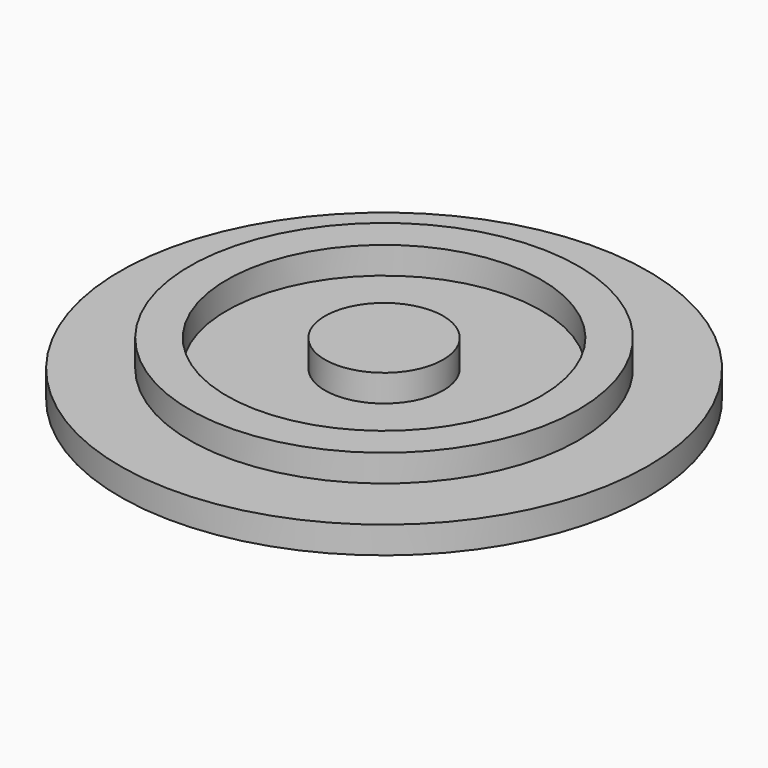
from build123d import *


with BuildPart() as f1:
    # F0 (on Front) → F1 (revolve)
    with BuildSketch(Plane.XZ):
        Polygon((-50.7177684302, 6.3500000622), (-57.6583184302, 6.3500000622), (-57.6580005249, 6.22e-08), (-26.6830184302, 6.22e-08), (-26.6830184302, 3.1750000622), (-34.847525829, 3.1750000622), (-34.847525829, 6.3500000622), (-39.203625829, 6.3500000622), (-39.203625829, 3.1750000622), (-50.7177684302, 3.1750000622), align=None)
    revolve(axis=Axis((-57.6581594775, 0, 3.1750000622), (-5.00638e-05, 0, 0.9999999987)))


solid = f1.part
